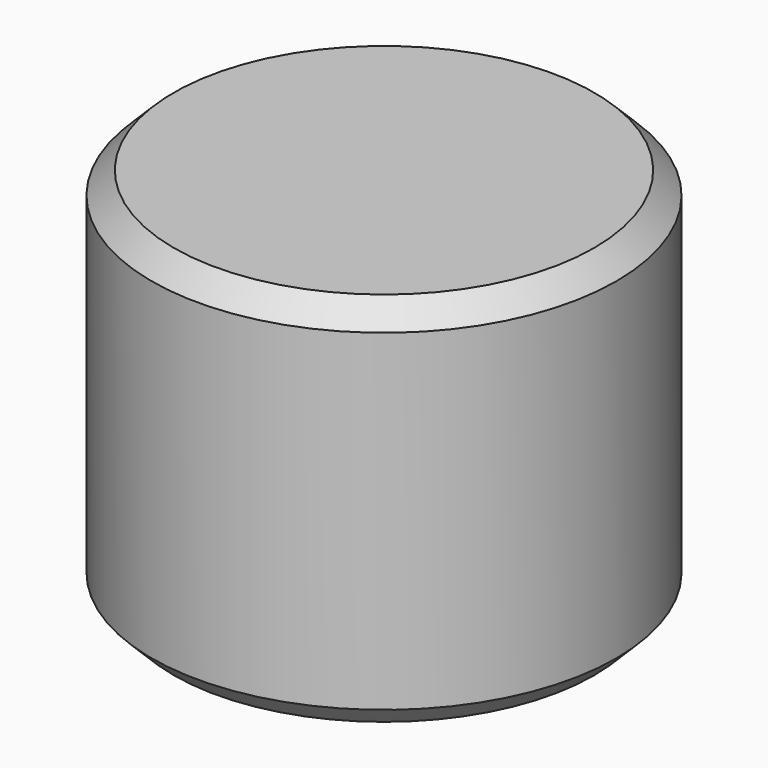
from build123d import *

# Parameters (mm, degrees)
SKETCH_R        = 10.5
PAD_DEPTH       = 17
CHAMFER_SIZE    = 1
CHAMFER001_SIZE = 1


with BuildPart() as part:
    # Sketch → Pad (new body)
    with BuildSketch(Plane.XY):
        Circle(SKETCH_R)
    extrude(amount=PAD_DEPTH)

    # Chamfer
    chamfer_edges = [part.edges().sort_by_distance(p)[0] for p in [
        (-10.5, 0, 17),
    ]]
    chamfer(chamfer_edges, length=CHAMFER_SIZE)

    # Chamfer001
    chamfer001_edges = [part.edges().sort_by_distance(p)[0] for p in [
        (-10.5, 0, 0),
    ]]
    chamfer(chamfer001_edges, length=CHAMFER001_SIZE)


solid = part.part
